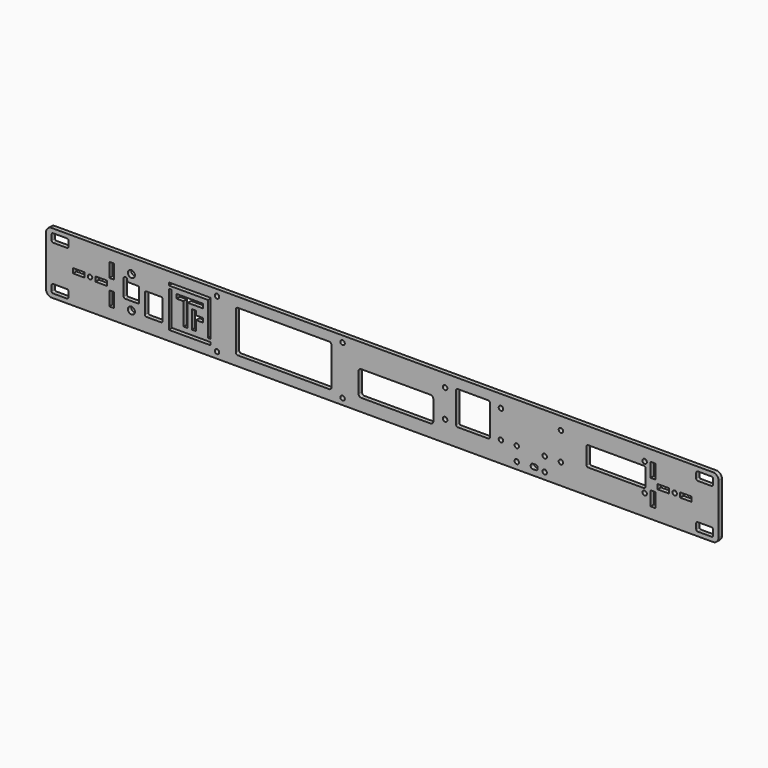
from build123d import *

# Parameters (mm, degrees)
SKETCH001002032_W   = 482
SKETCH001002032_H   = 44
SKETCH001002032_R   = 1.6
SKETCH001002032_W_2 = 8.2
SKETCH001002032_H_2 = 3.4
SKETCH001002032_W_3 = 3.4
SKETCH001002032_H_3 = 10.2
PAD026_DEPTH        = 3
SKETCH001002034_R   = 2.5
POCKET011_DEPTH     = 3
POCKET012_DEPTH     = 3
SKETCH001002036_R   = 1.6
POCKET013_DEPTH     = 3
POCKET014_DEPTH     = 3
SKETCH001002037_R   = 1.6
POCKET015_DEPTH     = 3
SKETCH001002038_R   = 1.6
POCKET016_DEPTH     = 3
FILLET037_R         = 4


with BuildPart() as part:
    # Sketch001002032 → Pad026 (new body)
    with BuildSketch(Plane.XZ):
        Rectangle(SKETCH001002032_W, SKETCH001002032_H)
        with Locations((209.5, 0)):
            Circle(SKETCH001002032_R, mode=Mode.SUBTRACT)
        with Locations((-209.5, 0)):
            Circle(SKETCH001002032_R, mode=Mode.SUBTRACT)
        with Locations((-217.5, 0)):
            Rectangle(SKETCH001002032_W_2, SKETCH001002032_H_2, mode=Mode.SUBTRACT)
        with Locations((-201.5, 0)):
            Rectangle(SKETCH001002032_W_2, SKETCH001002032_H_2, mode=Mode.SUBTRACT)
        with Locations((-194, 9)):
            Rectangle(SKETCH001002032_W_3, SKETCH001002032_H_3, mode=Mode.SUBTRACT)
        with Locations((-194, -9)):
            Rectangle(SKETCH001002032_W_3, SKETCH001002032_H_3, mode=Mode.SUBTRACT)
        with Locations((217.5, 0)):
            Rectangle(SKETCH001002032_W_2, SKETCH001002032_H_2, mode=Mode.SUBTRACT)
        with Locations((201.5, 0)):
            Rectangle(SKETCH001002032_W_2, SKETCH001002032_H_2, mode=Mode.SUBTRACT)
        with Locations((194, 9)):
            Rectangle(SKETCH001002032_W_3, SKETCH001002032_H_3, mode=Mode.SUBTRACT)
        with Locations((194, -9)):
            Rectangle(SKETCH001002032_W_3, SKETCH001002032_H_3, mode=Mode.SUBTRACT)
        with BuildLine():
            Line((-236, 19), (-226, 19))
            ThreePointArc((-225, 18), (-225.292893, 18.707107), (-226, 19))
            Line((-225, 18), (-225, 14))
            ThreePointArc((-226, 13), (-225.292893, 13.292893), (-225, 14))
            Line((-226, 13), (-236, 13))
            ThreePointArc((-237, 14), (-236.707107, 13.292893), (-236, 13))
            Line((-237, 14), (-237, 18))
            ThreePointArc((-236, 19), (-236.707107, 18.707107), (-237, 18))
        make_face(mode=Mode.SUBTRACT)
        with BuildLine():
            Line((-236, -13), (-226, -13))
            ThreePointArc((-225, -14), (-225.292893, -13.292893), (-226, -13))
            Line((-225, -14), (-225, -18))
            ThreePointArc((-226, -19), (-225.292893, -18.707107), (-225, -18))
            Line((-226, -19), (-236, -19))
            ThreePointArc((-237, -18), (-236.707107, -18.707107), (-236, -19))
            Line((-237, -18), (-237, -14))
            ThreePointArc((-236, -13), (-236.707107, -13.292893), (-237, -14))
        make_face(mode=Mode.SUBTRACT)
        with BuildLine():
            Line((226, 19), (236, 19))
            ThreePointArc((237, 18), (236.707107, 18.707107), (236, 19))
            Line((237, 18), (237, 14))
            ThreePointArc((236, 13), (236.707107, 13.292893), (237, 14))
            Line((236, 13), (226, 13))
            ThreePointArc((225, 14), (225.292893, 13.292893), (226, 13))
            Line((225, 14), (225, 18))
            ThreePointArc((226, 19), (225.292893, 18.707107), (225, 18))
        make_face(mode=Mode.SUBTRACT)
        with BuildLine():
            Line((226, -13), (236, -13))
            ThreePointArc((237, -14), (236.707107, -13.292893), (236, -13))
            Line((237, -14), (237, -18))
            ThreePointArc((236, -19), (236.707107, -18.707107), (237, -18))
            Line((236, -19), (226, -19))
            ThreePointArc((225, -18), (225.292893, -18.707107), (226, -19))
            Line((225, -18), (225, -14))
            ThreePointArc((226, -13), (225.292893, -13.292893), (225, -14))
        make_face(mode=Mode.SUBTRACT)
    extrude(amount=PAD026_DEPTH)

    # Sketch001002034 → Pocket011 (cut)
    with BuildSketch(Plane.XZ.offset(3)):
        with Locations((-179.85, 11.5)):
            Circle(SKETCH001002034_R)
        with Locations((-179.85, -11.5)):
            Circle(SKETCH001002034_R)
        with BuildLine():
            Line((-185.4, 7.05), (-185.4, -4.55))
            ThreePointArc((-185.4, -4.55), (-185.107107, -5.257107), (-184.4, -5.55))
            Line((-184.4, -5.55), (-175.3, -5.55))
            ThreePointArc((-175.3, -5.55), (-174.592893, -5.257107), (-174.3, -4.55))
            Line((-174.3, -4.55), (-174.3, 4.55))
            ThreePointArc((-174.3, 4.55), (-174.592893, 5.257107), (-175.3, 5.55))
            Line((-175.3, 5.55), (-181.4, 5.55))
            ThreePointArc((-182.9, 7.05), (-182.46066, 5.98934), (-181.4, 5.55))
            ThreePointArc((-182.9, 7.05), (-184.15, 8.3), (-185.4, 7.05))
        make_face()
        with BuildLine():
            Line((-170.15, 3.05), (-170.15, -11.05))
            ThreePointArc((-170.15, -11.05), (-169.857107, -11.757107), (-169.15, -12.05))
            Line((-169.15, -12.05), (-158.55, -12.05))
            ThreePointArc((-158.55, -12.05), (-157.842893, -11.757107), (-157.55, -11.05))
            Line((-157.55, -11.05), (-157.55, 3.05))
            ThreePointArc((-157.55, 3.05), (-157.842893, 3.757107), (-158.55, 4.05))
            Line((-158.55, 4.05), (-169.15, 4.05))
            ThreePointArc((-169.15, 4.05), (-169.857107, 3.757107), (-170.15, 3.05))
        make_face()
    extrude(amount=-POCKET011_DEPTH, mode=Mode.SUBTRACT)

    # Sketch001002033 → Pocket012 (cut)
    with BuildSketch(Plane.XZ.offset(3)):
        Polygon((-153, 15), (-123, 15), (-123, -11), (-125, -11), (-125, 13), (-153, 13), align=None)
        Polygon((-153, -15), (-123, -15), (-123, -13), (-151, -13), (-151, 11), (-153, 11), align=None)
        Polygon((-147.5, 9.5), (-147.5, 6.5), (-142.5, 6.5), (-142.5, -9.5), (-139.5, -9.5), (-139.5, 6.5), (-128.5, 6.5), (-128.5, 9.5), align=None)
        Polygon((-136.5, 3.5), (-136.5, -9.5), (-133.5, -9.5), (-133.5, -2.5), (-128.5, -2.5), (-128.5, 0.5), (-133.5, 0.5), (-133.5, 3.5), align=None)
    extrude(amount=-POCKET012_DEPTH, mode=Mode.SUBTRACT)

    # Sketch001002036 → Pocket013 (cut)
    with BuildSketch(Plane.XZ.offset(3)):
        with Locations((-118.5, -17.5)):
            Circle(SKETCH001002036_R)
        with Locations((-28.5, -17.5)):
            Circle(SKETCH001002036_R)
        with Locations((-28.5, 17.5)):
            Circle(SKETCH001002036_R)
        with Locations((-118.5, 17.5)):
            Circle(SKETCH001002036_R)
        with BuildLine():
            Line((-38, 15), (-103.5, 15))
            ThreePointArc((-103.5, 15), (-104.56066, 14.56066), (-105, 13.5))
            Line((-105, 13.5), (-105, -13.5))
            ThreePointArc((-105, -13.5), (-104.56066, -14.56066), (-103.5, -15))
            Line((-103.5, -15), (-38, -15))
            ThreePointArc((-38, -15), (-36.93934, -14.56066), (-36.5, -13.5))
            Line((-36.5, -13.5), (-36.5, 13.5))
            ThreePointArc((-36.5, 13.5), (-36.93934, 14.56066), (-38, 15))
        make_face()
    extrude(amount=-POCKET013_DEPTH, mode=Mode.SUBTRACT)

    # Sketch001002035 → Pocket014 (cut)
    with BuildSketch(Plane.XZ.offset(3)):
        with BuildLine():
            Line((-17.05, 3.05), (-17.05, -11.05))
            ThreePointArc((-17.05, -11.05), (-16.464214, -12.464214), (-15.05, -13.05))
            Line((-15.05, -13.05), (34.55, -13.05))
            ThreePointArc((34.55, -13.05), (35.964214, -12.464214), (36.55, -11.05))
            Line((36.55, -11.05), (36.55, 3.05))
            ThreePointArc((36.55, 3.05), (35.964214, 4.464214), (34.55, 5.05))
            Line((34.55, 5.05), (-15.05, 5.05))
            ThreePointArc((-15.05, 5.05), (-16.464214, 4.464214), (-17.05, 3.05))
        make_face()
    extrude(amount=-POCKET014_DEPTH, mode=Mode.SUBTRACT)

    # Sketch001002037 → Pocket015 (cut)
    with BuildSketch(Plane.XZ.offset(3)):
        with Locations((128, 12.95)):
            Circle(SKETCH001002037_R)
        with Locations((188, 12.95)):
            Circle(SKETCH001002037_R)
        with Locations((188, -7.05)):
            Circle(SKETCH001002037_R)
        with Locations((128, -7.05)):
            Circle(SKETCH001002037_R)
        with Locations((96.35, -7.05)):
            Circle(SKETCH001002037_R)
        with Locations((116.35, -7.05)):
            Circle(SKETCH001002037_R)
        with Locations((116.35, -17.05)):
            Circle(SKETCH001002037_R)
        with Locations((96.35, -17.05)):
            Circle(SKETCH001002037_R)
        with BuildLine():
            Line((107.85, -14.55), (109.85, -14.55))
            ThreePointArc((111.35, -16.05), (110.91066, -14.98934), (109.85, -14.55))
            Line((111.35, -16.05), (111.35, -16.55))
            ThreePointArc((109.85, -18.05), (110.91066, -17.61066), (111.35, -16.55))
            Line((109.85, -18.05), (107.85, -18.05))
            ThreePointArc((106.35, -16.55), (106.78934, -17.61066), (107.85, -18.05))
            Line((106.35, -16.55), (106.35, -16.05))
            ThreePointArc((107.85, -14.55), (106.78934, -14.98934), (106.35, -16.05))
        make_face()
        with BuildLine():
            Line((147.45, 10), (187.55, 10))
            ThreePointArc((188.55, 9), (188.257107, 9.707107), (187.55, 10))
            Line((188.55, 9), (188.55, -3.1))
            ThreePointArc((187.55, -4.1), (188.257107, -3.807107), (188.55, -3.1))
            Line((187.55, -4.1), (147.45, -4.1))
            ThreePointArc((146.45, -3.1), (146.742893, -3.807107), (147.45, -4.1))
            Line((146.45, -3.1), (146.45, 9))
            ThreePointArc((147.45, 10), (146.742893, 9.707107), (146.45, 9))
        make_face()
    extrude(amount=-POCKET015_DEPTH, mode=Mode.SUBTRACT)

    # Sketch001002038 → Pocket016 (cut)
    with BuildSketch(Plane.XZ.offset(3)):
        with Locations((45, 12.95)):
            Circle(SKETCH001002038_R)
        with Locations((85, 12.95)):
            Circle(SKETCH001002038_R)
        with Locations((85, -7.05)):
            Circle(SKETCH001002038_R)
        with Locations((45, -7.05)):
            Circle(SKETCH001002038_R)
        with BuildLine():
            Line((53.95, 15), (76.05, 15))
            ThreePointArc((77.05, 14), (76.757107, 14.707107), (76.05, 15))
            Line((77.05, 14), (77.05, -8.1))
            ThreePointArc((76.05, -9.1), (76.757107, -8.807107), (77.05, -8.1))
            Line((76.05, -9.1), (53.95, -9.1))
            ThreePointArc((52.95, -8.1), (53.242893, -8.807107), (53.95, -9.1))
            Line((52.95, -8.1), (52.95, 14))
            ThreePointArc((53.95, 15), (53.242893, 14.707107), (52.95, 14))
        make_face()
    extrude(amount=-POCKET016_DEPTH, mode=Mode.SUBTRACT)

    # Fillet037
    fillet037_edges = [part.edges().sort_by_distance(p)[0] for p in [
        (-241, -1.5, 22),
        (241, -1.5, 22),
        (-241, -1.5, -22),
        (241, -1.5, -22),
    ]]
    fillet(fillet037_edges, radius=FILLET037_R)


solid = part.part
